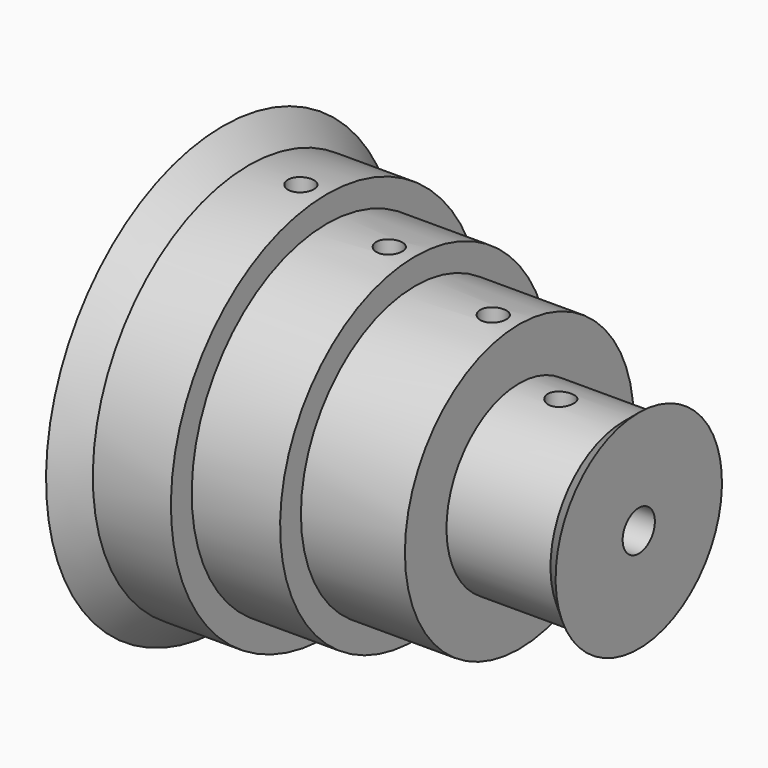
from build123d import *

# Parameters (mm, degrees)
F2_R     = 0.5
F3_DEPTH = 12.5


with BuildPart() as f1:
    # F0 (on Front) → F1 (revolve)
    with BuildSketch(Plane.XZ):
        Polygon((1, 7.5), (0, 8.5), (0, 0.775), (16, 0.775), (16, 4), (15.404123, 3.5), (11.404123, 3.5), (11.404123, 5.5), (7.404123, 5.5), (7.404123, 6.5), (4.004123, 6.5), (4.004123, 7.5), align=None)
    revolve(axis=Axis((6.044726, 0, 0), (1, 0, 0)))

    # F2 (on Top) → F3 (cut, symmetric)
    with BuildSketch(Plane.XY):
        with Locations((3.004123, 0)):
            Circle(F2_R)
        with Locations((6.404123, 0)):
            Circle(F2_R)
        with Locations((10.404123, 0)):
            Circle(F2_R)
        with Locations((13.003722, 0)):
            Circle(F2_R)
    extrude(amount=F3_DEPTH, both=True, mode=Mode.SUBTRACT)


solid = f1.part
